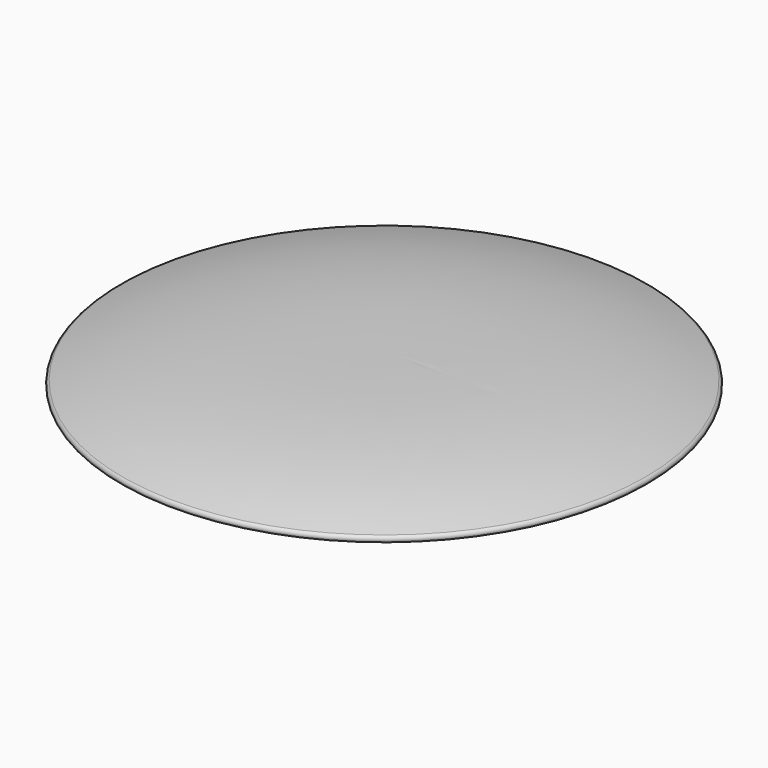
from build123d import *


with BuildPart() as f1:
    # F0 (on Front) → F1 (revolve)
    with BuildSketch(Plane.XZ):
        with BuildLine():
            add(Edge.make_bspline(
                [(0, 5.6280456483), (18.5337179625, 5.6302620948), (37.0992787454, 5.6115213865), (55.6667223573, 0)],
                knots=[0.4994228892, 0.4994228892, 0.4994228892, 0.4994228892, 1, 1, 1, 1], degree=3))
            Line((0, 5.6280456483), (0, 4.911001306))
            add(Edge.make_bspline(
                [(45.5287732184, 1.6766119516), (39.3530910061, 2.9650940691), (31.5247513549, 4.2956900308), (13.2024637735, 4.897216846), (4.2589497634, 4.8911540268), (0, 4.911001306)],
                knots=[0, 0, 0, 0, 0.3312454281, 0.6878338623, 1, 1, 1, 1], degree=3))
            Line((45.5287732184, 1.6766119516), (45.7386595204, 0))
            Line((45.7386595204, 0), (55.6667223573, 0))
        make_face()
        with BuildLine():
            ThreePointArc((55.4522909224, -1.3967081904), (56.1656377783, -0.7914111637), (55.6667223573, 0))
            Line((55.6667223573, 0), (45.7386595204, 0))
            Line((45.7386595204, 0), (46.0785925388, -2.7154500131))
            ThreePointArc((46.0785925388, -2.7154500131), (46.3328500792, -3.0452504861), (46.7481054366, -3.0765272677))
            add(Edge.make_bspline(
                [(55.4522909224, -1.3967081904), (54.4409674203, -1.4629644081), (52.4471987437, -1.5935849086), (49.6272668204, -2.0442844286), (47.7193204092, -2.7283252618), (46.7481054366, -3.0765272677)],
                knots=[0, 0, 0, 0, 0.335722426, 0.6618582436, 1, 1, 1, 1], degree=3))
        make_face()
    revolve(axis=Axis((0, 0, 2.8140228242), (0, 0, 1)))


solid = f1.part
